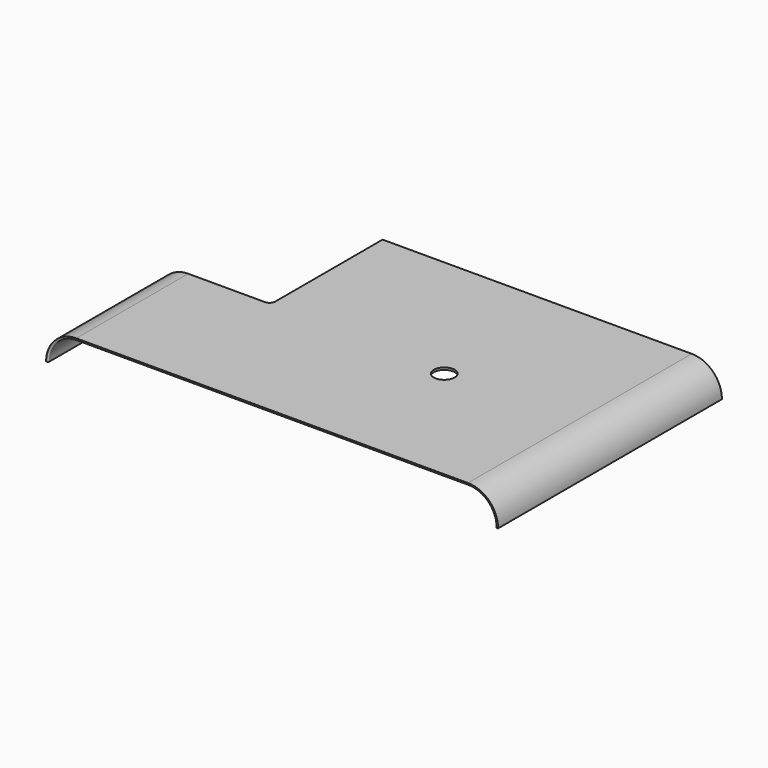
from build123d import *

# Parameters (mm, degrees)
F1_DEPTH = 254
F3_DEPTH = 27.401
F4_W     = 101.6
F4_H     = 38.1
F5_DEPTH = 42.418
F6_R     = 1.27
F7_R     = 9.525
F8_DEPTH = 27.401


with BuildPart() as f1:
    # F0 (on Front) → F1 (new body)
    with BuildSketch(Plane.XZ):
        with BuildLine():
            ThreePointArc((-25.4, -25.4), (-17.960512, -7.439488), (0, 0))
            Line((0, 0), (355.6, 0))
            ThreePointArc((355.6, 0), (373.560512, -7.439488), (381, -25.4))
            Line((381, -25.4), (383, -25.4))
            ThreePointArc((383, -25.4), (374.974726, -6.025274), (355.6, 2))
            Line((355.6, 2), (0, 2))
            ThreePointArc((0, 2), (-19.374726, -6.025274), (-27.4, -25.4))
            Line((-27.4, -25.4), (-25.4, -25.4))
        make_face()
    extrude(amount=F1_DEPTH)

    # F2 (on face) → F3 (cut, through all)
    with BuildSketch(Plane.XY.offset(2)):
        with BuildLine():
            Line((74.93, 0), (50.8, 0))
            Line((50.8, 0), (-52.07, 0))
            Line((-52.07, 0), (-52.07, -101.6))
            Line((-52.07, -101.6), (-52.07, -127))
            Line((-52.07, -127), (0, -127))
            Line((0, -127), (69.85, -127))
            ThreePointArc((69.85, -127), (73.442102, -125.512102), (74.93, -121.92))
            Line((74.93, -121.92), (74.93, -25.4))
            Line((74.93, -25.4), (74.93, 0))
        make_face()
    extrude(amount=-F3_DEPTH, mode=Mode.SUBTRACT)

    # F4 (on Right) → F5 (cut)
    with BuildSketch(Plane.YZ):
        with Locations((-50.8, -19.05)):
            Rectangle(F4_W, F4_H)
    extrude(amount=-F5_DEPTH, mode=Mode.SUBTRACT)

    # F6
    f6_edges = [f1.edges().sort_by_distance(p)[0] for p in [
        (177.8, -254, 0),
        (215.265, 0, 0),
    ]]
    fillet(f6_edges, radius=F6_R)

    # F7 (on face) → F8 (cut, through all)
    with BuildSketch(Plane.XY.offset(2)):
        with Locations((237.59414, -133.37032)):
            Circle(F7_R)
    extrude(amount=-F8_DEPTH, mode=Mode.SUBTRACT)


solid = f1.part
